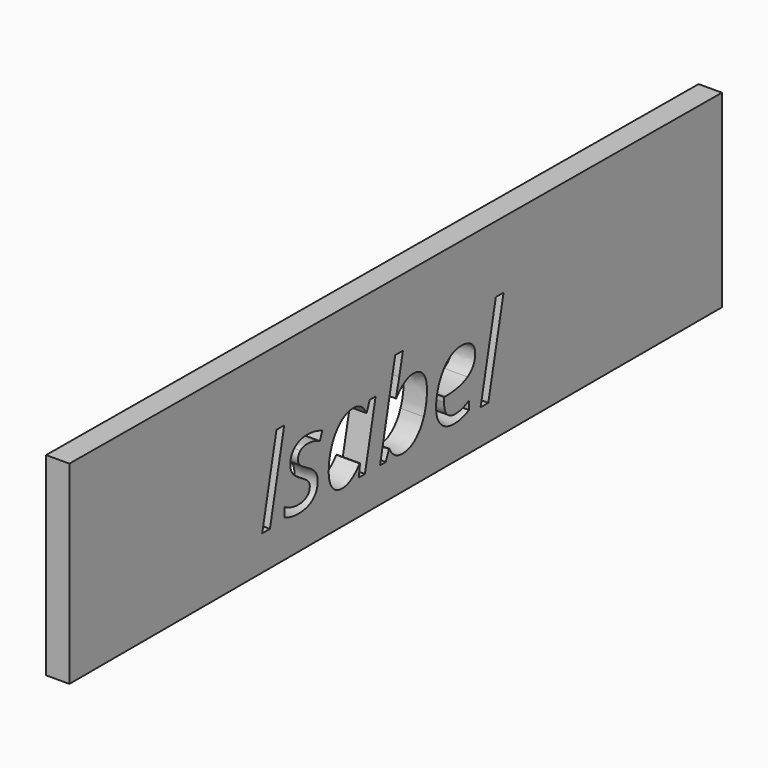
from build123d import *

# Parameters (mm, degrees)
F1_DEPTH = 6.35


with BuildPart() as f1:
    # F0 (on Right) → F1 (new body)
    with BuildSketch(Plane.YZ):
        Polygon((107.9963296652, 51.4815896749), (-114.268861711, 52.8442300856), (-114.268861711, 0), (107.9963296652, 0), align=None)
        with BuildLine():
            add(Edge.make_bspline(
                [(-30.0548927116, 16.0347425229), (-29.694553079, 15.2615137279), (-29.694553079, 14.2905986067)],
                knots=[0, 0, 0, 1, 1, 1], degree=2))
            add(Edge.make_bspline(
                [(-29.694553079, 14.2905986067), (-29.694553079, 11.8482966524), (-31.4236828438, 10.4795065202)],
                knots=[0, 0, 0, 1, 1, 1], degree=2))
            add(Edge.make_bspline(
                [(-31.4236828438, 10.4795065202), (-33.1528126086, 9.110716388), (-36.2957749597, 9.110716388)],
                knots=[0, 0, 0, 1, 1, 1], degree=2))
            add(Edge.make_bspline(
                [(-36.2957749597, 9.110716388), (-38.9382655988, 9.110716388), (-41.0652703746, 10.1917352858)],
                knots=[0, 0, 0, 1, 1, 1], degree=2))
            Line((-41.0652703746, 10.1917352858), (-41.0652703746, 12.6640655429))
            add(Edge.make_bspline(
                [(-41.0652703746, 12.6640655429), (-39.9692373254, 12.0084476002), (-38.7030438942, 11.6481079676)],
                knots=[0, 0, 0, 1, 1, 1], degree=2))
            add(Edge.make_bspline(
                [(-38.7030438942, 11.6481079676), (-37.436850463, 11.287768335), (-36.3558315651, 11.287768335)],
                knots=[0, 0, 0, 1, 1, 1], degree=2))
            add(Edge.make_bspline(
                [(-36.3558315651, 11.287768335), (-34.3889777372, 11.287768335), (-33.3880343132, 12.0685042057)],
                knots=[0, 0, 0, 1, 1, 1], degree=2))
            add(Edge.make_bspline(
                [(-33.3880343132, 12.0685042057), (-32.3870908893, 12.8492400763), (-32.3870908893, 14.0703910535)],
                knots=[0, 0, 0, 1, 1, 1], degree=2))
            add(Edge.make_bspline(
                [(-32.3870908893, 14.0703910535), (-32.3870908893, 14.9612307008), (-32.9326050554, 15.5718061894)],
                knots=[0, 0, 0, 1, 1, 1], degree=2))
            add(Edge.make_bspline(
                [(-32.9326050554, 15.5718061894), (-33.4781192214, 16.1823816779), (-35.2948315358, 17.2483864244)],
                knots=[0, 0, 0, 1, 1, 1], degree=2))
            add(Edge.make_bspline(
                [(-35.2948315358, 17.2483864244), (-37.3267466863, 18.3894619277), (-38.1725438795, 19.4829926183)],
                knots=[0, 0, 0, 1, 1, 1], degree=2))
            add(Edge.make_bspline(
                [(-38.1725438795, 19.4829926183), (-39.0183410727, 20.5765233089), (-39.0183410727, 22.0779384448)],
                knots=[0, 0, 0, 1, 1, 1], degree=2))
            add(Edge.make_bspline(
                [(-39.0183410727, 22.0779384448), (-39.0183410727, 24.2349715233), (-37.436850463, 25.5587192014)],
                knots=[0, 0, 0, 1, 1, 1], degree=2))
            add(Edge.make_bspline(
                [(-37.436850463, 25.5587192014), (-35.8553598532, 26.8824668795), (-33.2779305366, 26.8824668795)],
                knots=[0, 0, 0, 1, 1, 1], degree=2))
            add(Edge.make_bspline(
                [(-33.2779305366, 26.8824668795), (-30.6004068777, 26.8824668795), (-28.1130624692, 25.7213725078)],
                knots=[0, 0, 0, 1, 1, 1], degree=2))
            Line((-28.1130624692, 25.7213725078), (-28.9588596625, 23.5793535806))
            Line((-28.9588596625, 23.5793535806), (-29.8346851584, 23.9697215159))
            add(Edge.make_bspline(
                [(-29.8346851584, 23.9697215159), (-31.4161757681, 24.6453583271), (-33.2779305366, 24.6453583271)],
                knots=[0, 0, 0, 1, 1, 1], degree=2))
            add(Edge.make_bspline(
                [(-33.2779305366, 24.6453583271), (-34.7292985013, 24.6453583271), (-35.5600815431, 23.9647167988)],
                knots=[0, 0, 0, 1, 1, 1], degree=2))
            add(Edge.make_bspline(
                [(-35.5600815431, 23.9647167988), (-36.390864585, 23.2840752706), (-36.390864585, 22.2030563727)],
                knots=[0, 0, 0, 1, 1, 1], degree=2))
            add(Edge.make_bspline(
                [(-36.390864585, 22.2030563727), (-36.390864585, 21.3272308768), (-35.8353409847, 20.7016412369)],
                knots=[0, 0, 0, 1, 1, 1], degree=2))
            add(Edge.make_bspline(
                [(-35.8353409847, 20.7016412369), (-35.2798173844, 20.0760515969), (-33.543180544, 19.0901223244)],
                knots=[0, 0, 0, 1, 1, 1], degree=2))
            add(Edge.make_bspline(
                [(-33.543180544, 19.0901223244), (-31.8666003089, 18.154240223), (-31.1409163266, 17.4811057705)],
                knots=[0, 0, 0, 1, 1, 1], degree=2))
            add(Edge.make_bspline(
                [(-31.1409163266, 17.4811057705), (-30.4152323442, 16.8079713179), (-30.0548927116, 16.0347425229)],
                knots=[0, 0, 0, 1, 1, 1], degree=2))
        make_face(mode=Mode.SUBTRACT)
        with BuildLine():
            add(Edge.make_bspline(
                [(-21.7645788031, 25.3009762697), (-19.8102367679, 26.8824668795), (-17.4780385902, 26.8824668795)],
                knots=[0, 0, 0, 1, 1, 1], degree=2))
            add(Edge.make_bspline(
                [(-17.4780385902, 26.8824668795), (-16.0416847769, 26.8824668795), (-14.915623425, 26.106735726)],
                knots=[0, 0, 0, 1, 1, 1], degree=2))
            add(Edge.make_bspline(
                [(-14.915623425, 26.106735726), (-13.7895620731, 25.3310045725), (-13.1639724332, 23.8796366078)],
                knots=[0, 0, 0, 1, 1, 1], degree=2))
            Line((-13.1639724332, 23.8796366078), (-12.988807334, 23.8796366078))
            Line((-12.988807334, 23.8796366078), (-11.942821456, 26.567169701))
            Line((-11.942821456, 26.567169701), (-9.9559487595, 26.567169701))
            Line((-9.9559487595, 26.567169701), (-13.5993828226, 9.4260135666))
            Line((-13.5993828226, 9.4260135666), (-15.6813451443, 9.4260135666))
            Line((-15.6813451443, 9.4260135666), (-15.2709583405, 12.6940938456))
            Line((-15.2709583405, 12.6940938456), (-15.3960762685, 12.6940938456))
            add(Edge.make_bspline(
                [(-15.3960762685, 12.6940938456), (-18.1987178554, 9.110716388), (-21.2966377524, 9.110716388)],
                knots=[0, 0, 0, 1, 1, 1], degree=2))
            add(Edge.make_bspline(
                [(-21.2966377524, 9.110716388), (-23.4686849823, 9.110716388), (-24.7048501108, 10.6596763365)],
                knots=[0, 0, 0, 1, 1, 1], degree=2))
            add(Edge.make_bspline(
                [(-24.7048501108, 10.6596763365), (-25.9410152394, 12.208636285), (-25.9410152394, 14.9011740953)],
                knots=[0, 0, 0, 1, 1, 1], degree=2))
            add(Edge.make_bspline(
                [(-25.9410152394, 14.9011740953), (-25.9410152394, 18.154240223), (-24.8299680388, 20.9368629415)],
                knots=[0, 0, 0, 1, 1, 1], degree=2))
            add(Edge.make_bspline(
                [(-24.8299680388, 20.9368629415), (-23.7189208383, 23.71948566), (-21.7645788031, 25.3009762697)],
                knots=[0, 0, 0, 1, 1, 1], degree=2))
        make_face(mode=Mode.SUBTRACT)
        Polygon((-45.9598837175, 9.4260135666), (-48.5873602053, 9.4260135666), (-43.7227751651, 32.2925660857), (-41.0952986773, 32.2925660857), align=None, mode=Mode.SUBTRACT)
        with BuildLine():
            add(Edge.make_bspline(
                [(19.2916180871, 9.3859758296), (18.1655567352, 9.110716388), (16.8092783958, 9.110716388)],
                knots=[0, 0, 0, 1, 1, 1], degree=2))
            add(Edge.make_bspline(
                [(16.8092783958, 9.110716388), (13.931566052, 9.110716388), (12.2875164783, 10.8173249258)],
                knots=[0, 0, 0, 1, 1, 1], degree=2))
            add(Edge.make_bspline(
                [(12.2875164783, 10.8173249258), (10.6434669045, 12.5239334636), (10.6434669045, 15.5417778866)],
                knots=[0, 0, 0, 1, 1, 1], degree=2))
            add(Edge.make_bspline(
                [(10.6434669045, 15.5417778866), (10.6434669045, 18.4795468358), (11.8095659933, 21.1795917218)],
                knots=[0, 0, 0, 1, 1, 1], degree=2))
            add(Edge.make_bspline(
                [(11.8095659933, 21.1795917218), (12.9756650822, 23.8796366078), (14.8999788147, 25.3810517437)],
                knots=[0, 0, 0, 1, 1, 1], degree=2))
            add(Edge.make_bspline(
                [(14.8999788147, 25.3810517437), (16.8242925471, 26.8824668795), (19.1364718564, 26.8824668795)],
                knots=[0, 0, 0, 1, 1, 1], degree=2))
            add(Edge.make_bspline(
                [(19.1364718564, 26.8824668795), (21.5287266395, 26.8824668795), (22.7348634653, 25.8414857187)],
                knots=[0, 0, 0, 1, 1, 1], degree=2))
            add(Edge.make_bspline(
                [(22.7348634653, 25.8414857187), (23.9410002911, 24.8005045578), (23.9410002911, 22.9387497893)],
                knots=[0, 0, 0, 1, 1, 1], degree=2))
            add(Edge.make_bspline(
                [(23.9410002911, 22.9387497893), (23.9410002911, 20.1260987681), (21.3435521061, 18.5220869313)],
                knots=[0, 0, 0, 1, 1, 1], degree=2))
            add(Edge.make_bspline(
                [(21.3435521061, 18.5220869313), (18.746103921, 16.9180750945), (13.9115471835, 16.9180750945)],
                knots=[0, 0, 0, 1, 1, 1], degree=2))
            Line((13.9115471835, 16.9180750945), (13.3960613202, 16.9180750945))
            Line((13.3960613202, 16.9180750945), (13.3360047148, 15.6668958146))
            add(Edge.make_bspline(
                [(13.3360047148, 15.6668958146), (13.3360047148, 13.6199665127), (14.2969104018, 12.4688815752)],
                knots=[0, 0, 0, 1, 1, 1], degree=2))
            add(Edge.make_bspline(
                [(14.2969104018, 12.4688815752), (15.2578160887, 11.3177966377), (17.2747170879, 11.3177966377)],
                knots=[0, 0, 0, 1, 1, 1], degree=2))
            add(Edge.make_bspline(
                [(17.2747170879, 11.3177966377), (18.2606463604, 11.3177966377), (19.3016275213, 11.600563155)],
                knots=[0, 0, 0, 1, 1, 1], degree=2))
            add(Edge.make_bspline(
                [(19.3016275213, 11.600563155), (20.3426086822, 11.8833296722), (21.8890662721, 12.6340372402)],
                knots=[0, 0, 0, 1, 1, 1], degree=2))
            Line((21.8890662721, 12.6340372402), (21.8890662721, 10.3468815165))
            add(Edge.make_bspline(
                [(21.8890662721, 10.3468815165), (20.417679439, 9.6612352712), (19.2916180871, 9.3859758296)],
                knots=[0, 0, 0, 1, 1, 1], degree=2))
        make_face(mode=Mode.SUBTRACT)
        with BuildLine():
            add(Edge.make_bspline(
                [(3.4717072722, 10.6671834122), (1.5549006154, 9.110716388), (-0.8523683191, 9.110716388)],
                knots=[0, 0, 0, 1, 1, 1], degree=2))
            add(Edge.make_bspline(
                [(-0.8523683191, 9.110716388), (-2.3687976063, 9.110716388), (-3.5173801853, 9.9089687686)],
                knots=[0, 0, 0, 1, 1, 1], degree=2))
            add(Edge.make_bspline(
                [(-3.5173801853, 9.9089687686), (-4.6659627642, 10.7072211492), (-5.2465099501, 12.083518357)],
                knots=[0, 0, 0, 1, 1, 1], degree=2))
            Line((-5.2465099501, 12.083518357), (-5.4016561808, 12.083518357))
            Line((-5.4016561808, 12.083518357), (-6.4976892299, 9.4260135666))
            Line((-6.4976892299, 9.4260135666), (-8.4545336237, 9.4260135666))
            Line((-8.4545336237, 9.4260135666), (-3.2896655563, 33.7639529189))
            Line((-3.2896655563, 33.7639529189), (-0.6621890686, 33.7639529189))
            add(Edge.make_bspline(
                [(-0.6621890686, 33.7639529189), (-1.4629438077, 29.9753820594), (-1.89334948, 27.9659881359)],
                knots=[0, 0, 0, 1, 1, 1], degree=2))
            add(Edge.make_bspline(
                [(-1.89334948, 27.9659881359), (-2.3237551522, 25.9565942124), (-3.0744627202, 23.2690611192)],
                knots=[0, 0, 0, 1, 1, 1], degree=2))
            Line((-3.0744627202, 23.2690611192), (-2.9293259237, 23.2690611192))
            add(Edge.make_bspline(
                [(-2.9293259237, 23.2690611192), (-1.477957959, 25.1107970192), (-0.0616230142, 25.9791154394)],
                knots=[0, 0, 0, 1, 1, 1], degree=2))
            add(Edge.make_bspline(
                [(-0.0616230142, 25.9791154394), (1.3547119306, 26.8474338597), (2.8561270665, 26.8474338597)],
                knots=[0, 0, 0, 1, 1, 1], degree=2))
            add(Edge.make_bspline(
                [(2.8561270665, 26.8474338597), (5.0582025991, 26.8474338597), (6.2943677276, 25.3009762697)],
                knots=[0, 0, 0, 1, 1, 1], degree=2))
            add(Edge.make_bspline(
                [(6.2943677276, 25.3009762697), (7.5305328561, 23.7545186798), (7.5305328561, 21.0469667181)],
                knots=[0, 0, 0, 1, 1, 1], degree=2))
            add(Edge.make_bspline(
                [(7.5305328561, 21.0469667181), (7.5305328561, 17.7788864391), (6.4595233926, 15.0012684377)],
                knots=[0, 0, 0, 1, 1, 1], degree=2))
            add(Edge.make_bspline(
                [(6.4595233926, 15.0012684377), (5.388513929, 12.2236504364), (3.4717072722, 10.6671834122)],
                knots=[0, 0, 0, 1, 1, 1], degree=2))
        make_face(mode=Mode.SUBTRACT)
        Polygon((33.6201232003, 33.7639529189), (28.4252268302, 9.4260135666), (25.7977503425, 9.4260135666), (30.9926467125, 33.7639529189), align=None, mode=Mode.SUBTRACT)
    extrude(amount=F1_DEPTH)


solid = f1.part
